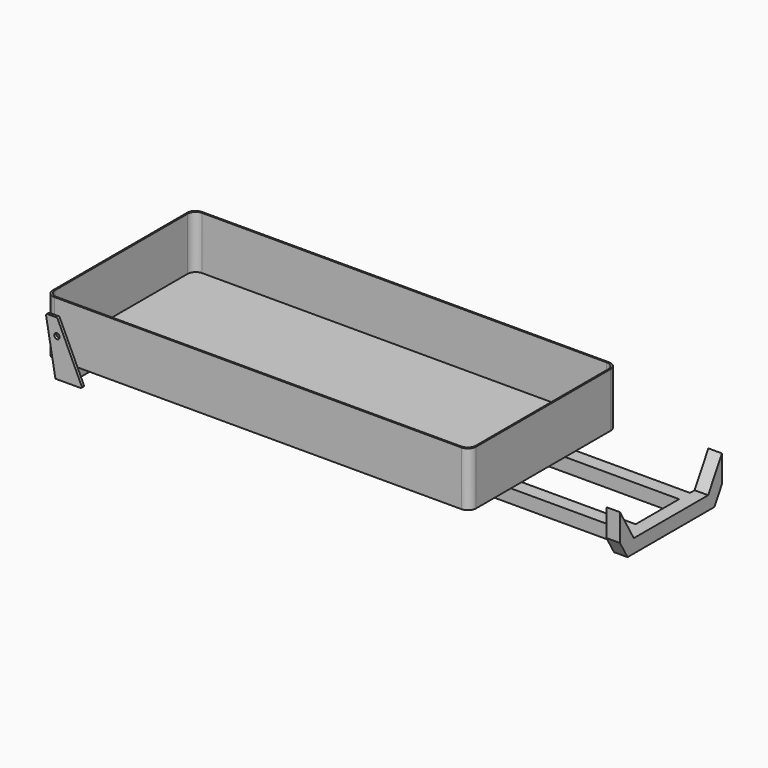
from build123d import *

# Parameters (mm, degrees)
F0_W          = 990.6
F0_H          = 127
F1_DEPTH      = 431.8
F2_R          = 19.05
F4_DEPTH      = 123.825
F5_W          = 31.75
F5_H          = 31.75
F5_W_2        = 19.05
F5_H_2        = 19.05
F6_DEPTH      = 762
F6_DEPTH_BACK = 495.3
F7_W          = 31.75
F7_H          = 31.75
F7_W_2        = 19.0499997139
F7_H_2        = 19.0499997139
F8_DEPTH      = 127
F10_W         = 31.75
F10_H         = 31.75
F10_W_2       = 19.05
F10_H_2       = 19.05
F11_DEPTH     = 127
F12_W         = 31.75
F12_H         = 31.75
F12_W_2       = 19.0499814987
F12_H_2       = 19.0499814987
F13_DEPTH     = 127
F15_R         = 6.35
F16_DEPTH     = 6.35
F18_R         = 6.35
F19_DEPTH     = 6.35
F22_DEPTH     = 31.75


with BuildPart() as f1:
    # F0 (on Front) → F1 (new body)
    with BuildSketch(Plane.XZ):
        Rectangle(F0_W, F0_H)
    extrude(amount=F1_DEPTH)

    # F2
    f2_edges = [f1.edges().sort_by_distance(p)[0] for p in [
        (495.3, -431.8, 0),
        (495.3, 0, 0),
        (-495.3, -431.8, 0),
        (-495.3, 0, 0),
    ]]
    fillet(f2_edges, radius=F2_R)

    # F3 (on face) → F4 (cut)
    with BuildSketch(Plane.XY.offset(63.5)):
        with BuildLine():
            ThreePointArc((492.125, -22.225), (486.5453841816, -8.7546158184), (473.075, -3.175))
            Line((473.075, -3.175), (-473.075, -3.175))
            ThreePointArc((-473.075, -3.175), (-486.5453841816, -8.7546158184), (-492.125, -22.225))
            Line((-492.125, -22.225), (-492.125, -409.575))
            ThreePointArc((-492.125, -409.575), (-486.5453841816, -423.0453841816), (-473.075, -428.625))
            Line((-473.075, -428.625), (473.075, -428.625))
            ThreePointArc((473.075, -428.625), (486.5453841816, -423.0453841816), (492.125, -409.575))
            Line((492.125, -409.575), (492.125, -22.225))
        make_face()
    extrude(amount=-F4_DEPTH, mode=Mode.SUBTRACT)

    # F5 (on Right) → F6 (join, two sides)
    with BuildSketch(Plane.YZ) as f6_sk:
        with Locations((-295.275, -79.375)):
            Rectangle(F5_W, F5_H)
        with Locations((-295.275, -79.375)):
            Rectangle(F5_W_2, F5_H_2, mode=Mode.SUBTRACT)
        with Locations((-136.525, -79.375)):
            Rectangle(F5_W, F5_H)
        with Locations((-136.525, -79.375)):
            Rectangle(F5_W_2, F5_H_2, mode=Mode.SUBTRACT)
    extrude(amount=F6_DEPTH)
    extrude(f6_sk.sketch, amount=-F6_DEPTH_BACK)

    # F7 (on face) → F8 (join)
    with BuildSketch(Plane.XZ.offset(152.4)):
        with Locations((-479.425, -79.375)):
            Rectangle(F7_W, F7_H)
        with Locations((-479.425, -79.375)):
            Rectangle(F7_W_2, F7_H_2, mode=Mode.SUBTRACT)
    extrude(amount=F8_DEPTH)

    # F10 (on face) → F11 (join)
    with BuildSketch(Plane.XZ.offset(311.15)):
        with Locations((-447.675, -79.375)):
            Rectangle(F10_W, F10_H)
        with Locations((-447.675, -79.375)):
            Rectangle(F10_W_2, F10_H_2, mode=Mode.SUBTRACT)
    extrude(amount=F11_DEPTH)

    # F12 (on face) → F13 (join)
    with BuildSketch(Plane(origin=(0, -120.65, 0), x_dir=(-1, 0, 0), z_dir=(0, 1, 0))):
        with Locations((447.675, -79.375)):
            Rectangle(F12_W, F12_H)
        with Locations((447.675, -79.375)):
            Rectangle(F12_W_2, F12_H_2, mode=Mode.SUBTRACT)
    extrude(amount=F13_DEPTH)

    # F15 (on offset) → F16 (join)
    with BuildSketch(Plane.XZ.offset(438.15)):
        with BuildLine():
            Line((-485.2864735093, 28.0236670359), (-463.55, -95.25))
            Line((-463.55, -95.25), (-405.0337517073, -95.25))
            ThreePointArc((-405.0337517073, -95.25), (-402.3559838669, -93.7809262565), (-402.1562244835, -90.733187019))
            Line((-402.1562244835, -90.733187019), (-458.4162434399, 29.916812981))
            ThreePointArc((-458.4162434399, 29.916812981), (-459.5878444072, 31.2527678405), (-461.2937706637, 31.75))
            Line((-461.2937706637, 31.75), (-482.1597088935, 31.75))
            ThreePointArc((-482.1597088935, 31.75), (-484.5919000004, 30.6158506608), (-485.2864735093, 28.0236670359))
        make_face()
        with Locations((-459.8815916286, -6.35)):
            Circle(F15_R, mode=Mode.SUBTRACT)
    extrude(amount=F16_DEPTH)

    # F18 (on offset) → F19 (join)
    with BuildSketch(Plane(origin=(0, 6.35, 0), x_dir=(-1, 0, 0), z_dir=(0, 1, 0))):
        Polygon((400.05, -95.25), (463.55, -95.25), (485.94352655, 31.75), (459.2710725857, 31.75), align=None)
        with Locations((459.8815916286, -6.35)):
            Circle(F18_R, mode=Mode.SUBTRACT)
    extrude(amount=F19_DEPTH)

    # F21 (on offset) → F22 (join)
    with BuildSketch(Plane.YZ.offset(762)):
        Polygon((-324.5691289532, -63.5), (-364.8970452561, 6.35), (-364.8970452561, -57.15), (-342.9, -95.25), (-88.9, -95.25), (-66.9029547439, -57.15), (-66.9029547439, 6.35), (-107.2308710468, -63.5), align=None)
    extrude(amount=F22_DEPTH)


solid = f1.part
